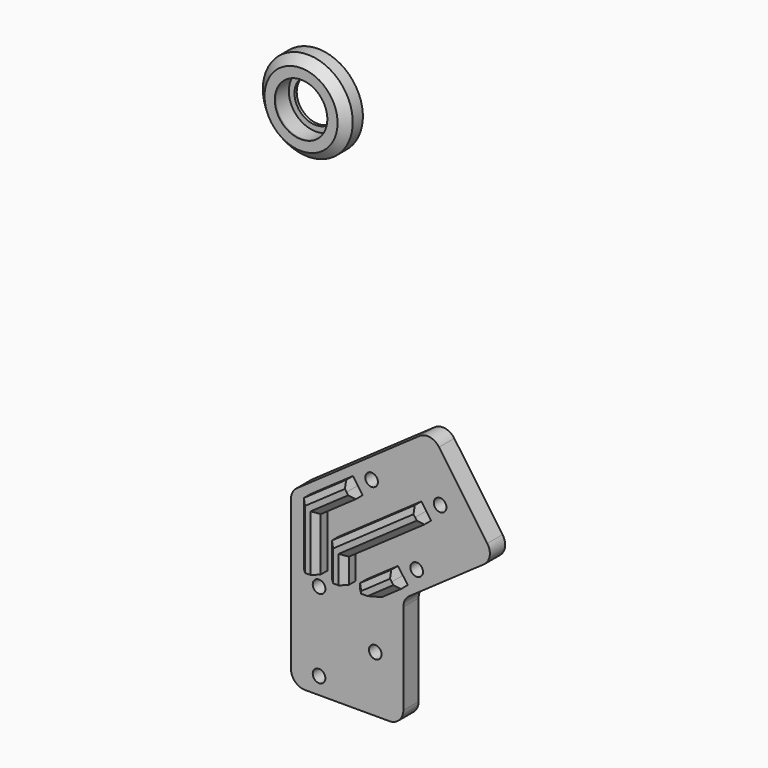
from build123d import *

# Parameters (mm, degrees)
F2_DEPTH = 6.8
F3_D     = 4.5
F5_DEPTH = 5
F6_SIZE  = 2
F7_R     = 5
F11_SIZE = 3


with BuildPart() as f2:
    # F1 (on Front) → F2 (new body)
    with BuildSketch(Plane.XZ):
        Polygon((-20, 20.8226820221), (-20, -40), (20, -40), (20, 0), (52.7660817716, 22.943057454), (29.8230243175, 55.7091392256), align=None)
    extrude(amount=F2_DEPTH)

    # F3 (through all)
    with Locations(Plane(origin=(0, 0, 0), x_dir=(1, 0, 0), z_dir=(0, 1, 0))):
        with Locations((-10, 6), (10, 20), (-10, 34), (8.689921607, -33.5869338693), (24.7500618248, -10.6506766292), (33.1030326016, -33.5903339763)):
            Hole(F3_D / 2)

    # F4 (on face) → F5 (join)
    with BuildSketch(Plane.XZ.offset(6.8)):
        Polygon((29.908849645, 27.6914192253), (28.1881203359, 30.1488753582), (0, 10.411341011), (0, 0), (3, 0), (3, 8.8496398594), align=None)
        Polygon((0, 10.411341011), (28.1881203359, 30.1488753582), (26.4673910269, 32.6063314911), (-3, 11.9730421627), (-3, 0), (0, 0), align=None)
        Polygon((21.5558788681, 4.7517618783), (19.835149559, 7.2092180111), (10, 0.3225721505), (10, 0), (14.7696596131, 0), align=None)
        Polygon((10, 0.3225721505), (19.835149559, 7.2092180111), (18.11442025, 9.666674144), (7, 1.8842733021), (7, 0), (10, 0), align=None)
        Polygon((5.4957386503, 27.6880191184), (3.7750093412, 30.1454752512), (-10, 20.5001098716), (-10, 0), (-7, 0), (-7, 18.9384087199), align=None)
        Polygon((-10, 20.5001098716), (3.7750093412, 30.1454752512), (2.0542800322, 32.6029313841), (-13, 22.0618110233), (-13, 0), (-10, 0), align=None)
    extrude(amount=F5_DEPTH)

    # F6
    f6_edges = [f2.edges().sort_by_distance(p)[0] for p in [
        (-5.47286, -11.8, 27.332371),
        (-13, -11.8, 11.030906),
        (-0.752131, -11.8, 23.313214),
        (-7, -11.8, 9.469204),
        (11.733696, -11.8, 22.289687),
        (-3, -11.8, 5.986521),
        (16.454425, -11.8, 18.27053),
        (3, -11.8, 4.42482),
        (12.55721, -11.8, 5.775474),
        (18.162769, -11.8, 2.375881),
        (7, -11.8, 0.942137),
    ]]
    chamfer(f6_edges, length=F6_SIZE)

    # F7
    f7_edges = [f2.edges().sort_by_distance(p)[0] for p in [
        (-20, -3.4, 20.822682),
        (29.823024, -3.4, 55.709139),
        (-20, -3.4, -40),
        (20, -3.4, -40),
        (20, -3.4, 0),
        (52.766082, -3.4, 22.943057),
    ]]
    fillet(f7_edges, radius=F7_R)


with BuildPart() as f10:
    # F9 (on plane+point) → F10 (revolve)
    with BuildSketch(Plane.XY.offset(141.9280942783)):
        Polygon((-25.1964228942, -7.5), (-25.1964228942, -7), (-25.3964228942, -7), (-25.3964228942, -1), (-23.3964228942, -1), (-23.3964228942, 0), (-31.8464228942, 0), (-31.8464228942, -7.5), align=None)
    revolve(axis=Axis((-15.8464228942, -39.9798490107, 141.9280942783), (0, -1, 0)))

    # F11
    f11_edges = [f10.edges().sort_by_distance(p)[0] for p in [
        (0.153577, -7.5, 141.928094),
    ]]
    chamfer(f11_edges, length=F11_SIZE)


solid = Compound([f2.part, f10.part])
